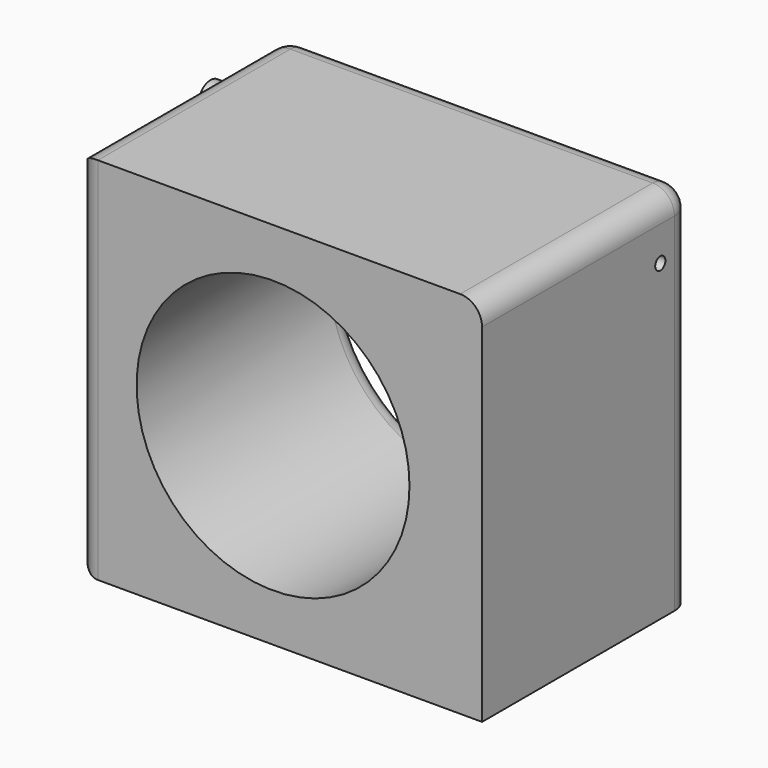
from build123d import *

# Parameters (mm, degrees)
F0_W     = 117.930185
F0_H     = 107.323121
F1_DEPTH = 76.2
F2_R     = 39.627537
F3_DEPTH = 76.2
F4_R     = 6.35
F5_R     = 6.35
F6_R     = 4.388135
F7_DEPTH = 12.7
F8_R     = 1.851713
F9_DEPTH = 152.4


with BuildPart() as f1:
    # F0 (on Front) → F1 (new body)
    with BuildSketch(Plane.XZ):
        with Locations((1.745266, -15.826897)):
            Rectangle(F0_W, F0_H)
    extrude(amount=F1_DEPTH)

    # F2 (on face) → F3 (cut)
    with BuildSketch(Plane.XZ.offset(76.2)):
        with Locations((0, -16.006619)):
            Circle(F2_R)
    extrude(amount=-F3_DEPTH, mode=Mode.SUBTRACT)

    # F4
    f4_edges = [f1.edges().sort_by_distance(p)[0] for p in [
        (1.745267, 0, 37.834663),
        (-39.627537, 0, -16.006619),
    ]]
    fillet(f4_edges, radius=F4_R)

    # F5
    f5_edges = [f1.edges().sort_by_distance(p)[0] for p in [
        (60.710359, 0, -19.001898),
        (-57.219826, -41.275, 37.834663),
        (-57.219826, -1.859872, 35.974791),
        (-57.219826, -76.2, -15.826898),
        (-57.219826, 0, -19.001898),
        (-57.219826, -38.1, -69.488458),
    ]]
    fillet(f5_edges, radius=F5_R)

    # F6 (on face) → F7 (join)
    with BuildSketch(Plane(origin=(-57.219826, 0, 0), x_dir=(0, -1, 0), z_dir=(-1, 0, 0))):
        with Locations((11.499761, 21.451753)):
            Circle(F6_R)
    extrude(amount=F7_DEPTH)

    # F8 (on face) → F9 (cut)
    with BuildSketch(Plane(origin=(-69.919826, 0, 0), x_dir=(0, -1, 0), z_dir=(-1, 0, 0))):
        with Locations((11.499761, 21.451753)):
            Circle(F8_R)
    extrude(amount=-F9_DEPTH, mode=Mode.SUBTRACT)


solid = f1.part
